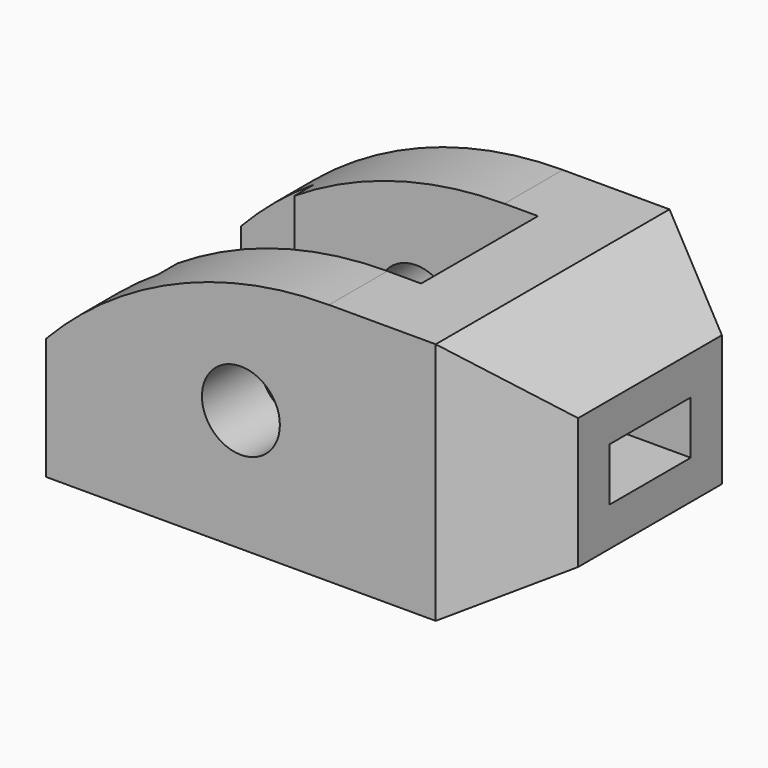
from build123d import *

# Parameters (mm, degrees)
F0_R      = 8
F1_DEPTH  = 60
F7_W      = 30
F7_H      = 25
F7_H_2    = 25.8307009935
F8_DEPTH  = 65
F7_W_2    = 5
F9_DEPTH  = 15
F6_W      = 20.9059892324
F6_H      = 10.9059892324
F10_DEPTH = 100.001
F11_DEPTH = 20
F12_DEPTH = 60.001
F13_DEPTH = 50.001


with BuildPart() as f1:
    # F0 (on Front) → F1 (new body)
    with BuildSketch(Plane.XZ):
        with BuildLine():
            ThreePointArc((18.0947501931, 25), (-13.5280264086, 18.4846922835), (-40, 0))
            Line((-40, 0), (-40, -25))
            Line((-40, -25), (40, -25))
            Line((40, -25), (40, 25))
            Line((40, 25), (18.0947501931, 25))
        make_face()
        Circle(F0_R, mode=Mode.SUBTRACT)
    extrude(amount=F1_DEPTH)

    # F7 (on face) → F8 (cut)
    with BuildSketch(Plane(origin=(-40, 0, 0), x_dir=(0, -1, 0), z_dir=(-1, 0, 0))):
        with Locations((30, -12.5)):
            Rectangle(F7_W, F7_H)
        with Locations((30, 12.9153504968)):
            Rectangle(F7_W, F7_H_2)
    extrude(amount=-F8_DEPTH, mode=Mode.SUBTRACT)

    # F7 (on face) → F9 (cut)
    with BuildSketch(Plane(origin=(-40, 0, 0), x_dir=(0, -1, 0), z_dir=(-1, 0, 0))):
        with Locations((12.5, 12.9153504968)):
            Rectangle(F7_W_2, F7_H_2)
        with Locations((12.5, -12.5)):
            Rectangle(F7_W_2, F7_H)
        with Locations((47.5, 12.9153504968)):
            Rectangle(F7_W_2, F7_H_2)
        with Locations((47.5, -12.5)):
            Rectangle(F7_W_2, F7_H)
    extrude(amount=-F9_DEPTH, mode=Mode.SUBTRACT)

    # F6 (on offset) → F10 (cut, through all)
    with BuildSketch(Plane.YZ.offset(60)):
        with Locations((-30, 0)):
            Rectangle(F6_W, F6_H)
    extrude(amount=-F10_DEPTH, mode=Mode.SUBTRACT)

    # F11 (add): a face of the model
    f11_faces = [f1.faces().sort_by_distance(p)[0] for p in [
        (40, -30, -24.2189750324),
    ]]
    extrude(f11_faces, amount=F11_DEPTH)

    # F3 (on offset) → F12 (cut, through all)
    with BuildSketch(Plane.XZ.offset(60)):
        Polygon((40, 25), (60, 13.4529946162), (60, 25), align=None)
        Polygon((60, -13.4529946162), (40, -25), (60, -25), align=None)
    extrude(amount=-F12_DEPTH, mode=Mode.SUBTRACT)

    # F5 (on face) → F13 (cut, through all)
    with BuildSketch(Plane(origin=(0, 0, -25), x_dir=(1, 0, 0), z_dir=(0, 0, -1))):
        Polygon((60, 11.5470053838), (40, 0), (60, 0), align=None)
        Polygon((60, 60), (40, 60), (60, 48.4529946162), align=None)
    extrude(amount=-F13_DEPTH, mode=Mode.SUBTRACT)


solid = f1.part
